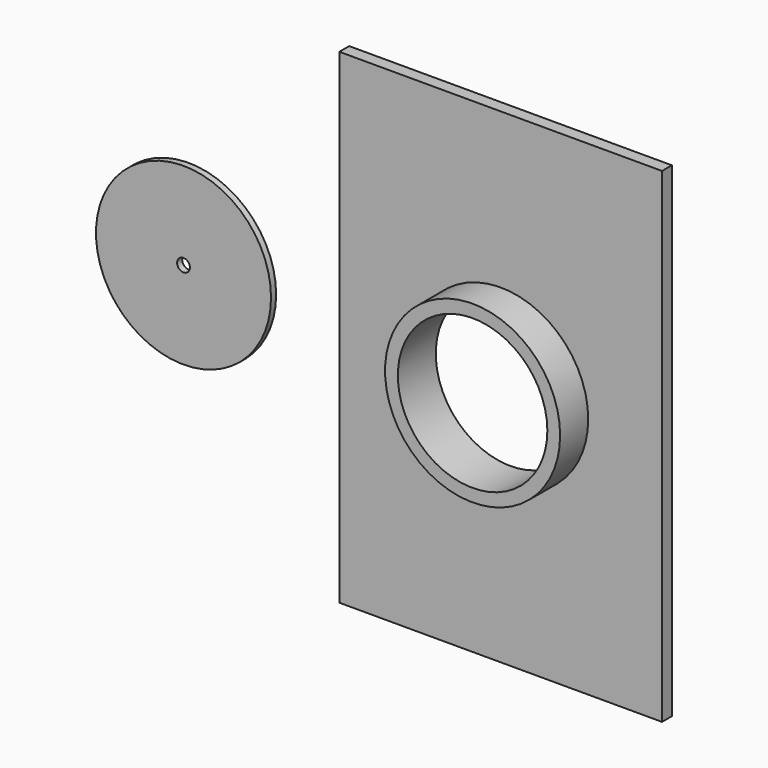
from build123d import *

# Parameters (mm, degrees)
F0_W     = 50.56
F0_H     = 76
F1_DEPTH = 1.93
F2_R     = 11.715
F3_DEPTH = 1.93
F4_R     = 13.715
F4_R_2   = 11.715
F5_DEPTH = 5.5
F6_R     = 13.715
F7_DEPTH = 1
F9_D     = 2


with BuildPart() as f1:
    # F0 (on Front) → F1 (new body)
    with BuildSketch(Plane.XZ):
        Rectangle(F0_W, F0_H)
    extrude(amount=F1_DEPTH)

    # F2 (on face) → F3 (cut)
    with BuildSketch(Plane.XZ.offset(1.93)):
        Circle(F2_R)
    extrude(amount=-F3_DEPTH, mode=Mode.SUBTRACT)

    # F4 (on face) → F5 (join)
    with BuildSketch(Plane.XZ.offset(1.93)):
        Circle(F4_R)
        Circle(F4_R_2, mode=Mode.SUBTRACT)
    extrude(amount=F5_DEPTH)


with BuildPart() as f7:
    # F6 (on Front) → F7 (new body)
    with BuildSketch(Plane.XZ):
        with Locations((-50.443648, 0)):
            Circle(F6_R)
    extrude(amount=F7_DEPTH)

    # F9 (through all)
    with Locations(Plane(origin=(0, 0, 0), x_dir=(-1, 0, 0), z_dir=(0, 1, 0))):
        with Locations((50.443648, 0)):
            Hole(F9_D / 2)


solid = Compound([f1.part, f7.part])
